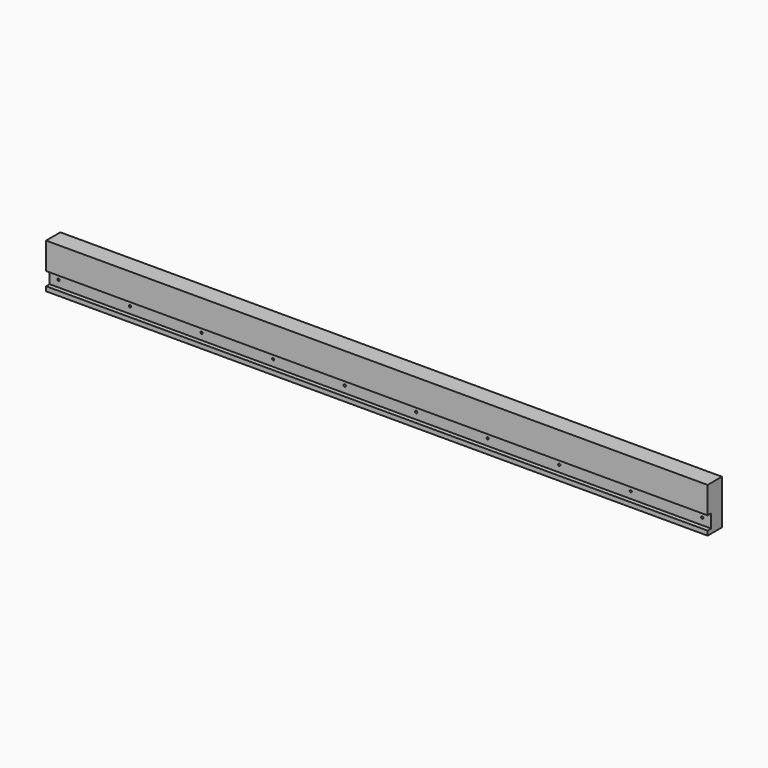
from build123d import *

# Parameters (mm, degrees)
F0_W     = 939.8
F0_H     = 63.5
F1_DEPTH = 25.4
F2_W     = 939.8
F2_H     = 19.05
F3_DEPTH = 6.35
F4_R     = 1.5875
F5_DEPTH = 25.401


with BuildPart() as f1:
    # F0 (on Front) → F1 (new body)
    with BuildSketch(Plane.XZ):
        with Locations((469.9, -31.75)):
            Rectangle(F0_W, F0_H)
    extrude(amount=-F1_DEPTH)

    # F2 (on Front) → F3 (cut)
    with BuildSketch(Plane.XZ):
        with Locations((469.9, -47.625)):
            Rectangle(F2_W, F2_H)
    extrude(amount=-F3_DEPTH, mode=Mode.SUBTRACT)

    # F4 (on Front) → F5 (cut, through all)
    with BuildSketch(Plane.XZ):
        with Locations((12.7, -47.625)):
            Circle(F4_R)
        with Locations((114.3, -47.625)):
            Circle(F4_R)
        with Locations((215.9, -47.625)):
            Circle(F4_R)
        with Locations((317.5, -47.625)):
            Circle(F4_R)
        with Locations((419.1, -47.625)):
            Circle(F4_R)
        with Locations((520.7, -47.625)):
            Circle(F4_R)
        with Locations((622.3, -47.625)):
            Circle(F4_R)
        with Locations((723.9, -47.625)):
            Circle(F4_R)
        with Locations((825.5, -47.625)):
            Circle(F4_R)
        with Locations((927.1, -47.625)):
            Circle(F4_R)
    extrude(amount=-F5_DEPTH, mode=Mode.SUBTRACT)


solid = f1.part
